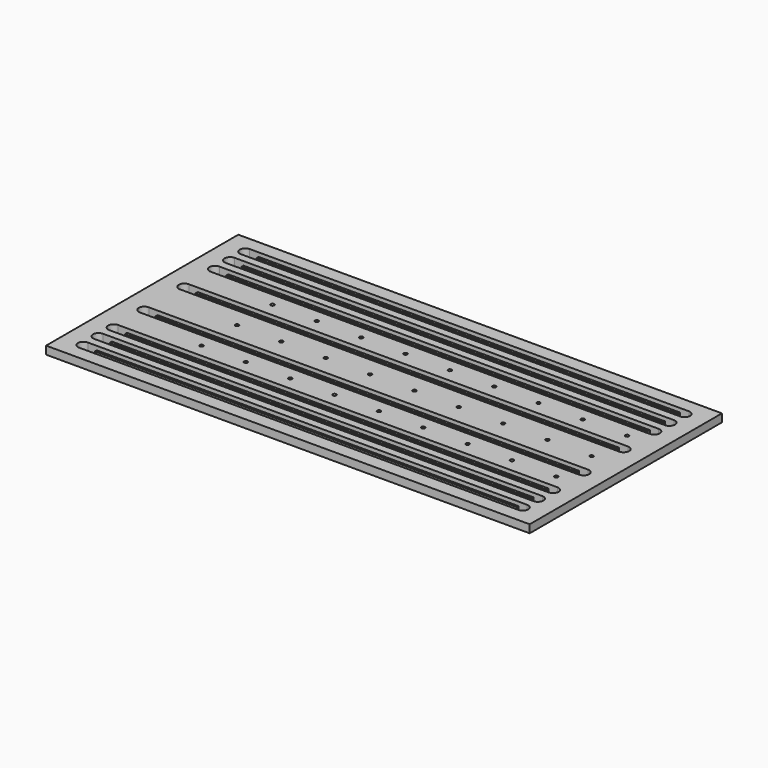
from build123d import *

# Parameters (mm, degrees)
F1_W     = 1091
F1_H     = 542
F1_R     = 4
F2_DEPTH = 18
F1_R_2   = 1.5
F1_W_2   = 951
F1_H_2   = 6
F1_H_3   = 5
F3_DEPTH = 9


with BuildPart() as f2:
    # F1 (on face) → F2 (new body)
    with BuildSketch(Plane.XY):
        with Locations((545.5, 271)):
            Rectangle(F1_W, F1_H)
        with Locations((214, 171)):
            Circle(F1_R, mode=Mode.SUBTRACT)
        with Locations((314, 171)):
            Circle(F1_R, mode=Mode.SUBTRACT)
        with Locations((414, 171)):
            Circle(F1_R, mode=Mode.SUBTRACT)
        with Locations((514, 171)):
            Circle(F1_R, mode=Mode.SUBTRACT)
        with BuildLine():
            Line((70, 30.25), (50, 30.25))
            ThreePointArc((50, 30.25), (37.5, 42.75), (50, 55.25))
            Line((50, 55.25), (70, 55.25))
            Line((70, 55.25), (1021, 55.25))
            Line((1021, 55.25), (1041, 55.25))
            ThreePointArc((1041, 55.25), (1053.5, 42.75), (1041, 30.25))
            Line((1041, 30.25), (1021, 30.25))
            Line((1021, 30.25), (70, 30.25))
        make_face(mode=Mode.SUBTRACT)
        with BuildLine():
            Line((70, 73), (50, 73))
            ThreePointArc((50, 73), (37.5, 85.5), (50, 98))
            Line((50, 98), (70, 98))
            Line((70, 98), (1021, 98))
            Line((1021, 98), (1041, 98))
            ThreePointArc((1041, 98), (1053.5, 85.5), (1041, 73))
            Line((1041, 73), (1021, 73))
            Line((1021, 73), (70, 73))
        make_face(mode=Mode.SUBTRACT)
        with BuildLine():
            Line((70, 115.75), (50, 115.75))
            ThreePointArc((50, 115.75), (37.5, 128.25), (50, 140.75))
            Line((50, 140.75), (70, 140.75))
            Line((70, 140.75), (1021, 140.75))
            Line((1021, 140.75), (1041, 140.75))
            ThreePointArc((1041, 140.75), (1053.5, 128.25), (1041, 115.75))
            Line((1041, 115.75), (1021, 115.75))
            Line((1021, 115.75), (70, 115.75))
        make_face(mode=Mode.SUBTRACT)
        with Locations((614, 171)):
            Circle(F1_R, mode=Mode.SUBTRACT)
        with Locations((714, 171)):
            Circle(F1_R, mode=Mode.SUBTRACT)
        with Locations((814, 171)):
            Circle(F1_R, mode=Mode.SUBTRACT)
        with BuildLine():
            Line((70, 202.061247), (50, 202.061247))
            ThreePointArc((50, 202.061247), (37.5, 214.561247), (50, 227.061247))
            Line((50, 227.061247), (70, 227.061247))
            Line((70, 227.061247), (1021, 227.061247))
            Line((1021, 227.061247), (1041, 227.061247))
            ThreePointArc((1041, 227.061247), (1053.5, 214.561247), (1041, 202.061247))
            Line((1041, 202.061247), (1021, 202.061247))
            Line((1021, 202.061247), (70, 202.061247))
        make_face(mode=Mode.SUBTRACT)
        with Locations((914, 171)):
            Circle(F1_R, mode=Mode.SUBTRACT)
        with Locations((1014, 171)):
            Circle(F1_R, mode=Mode.SUBTRACT)
        with Locations((214, 271)):
            Circle(F1_R, mode=Mode.SUBTRACT)
        with Locations((214, 371)):
            Circle(F1_R, mode=Mode.SUBTRACT)
        with Locations((314, 271)):
            Circle(F1_R, mode=Mode.SUBTRACT)
        with Locations((414, 271)):
            Circle(F1_R, mode=Mode.SUBTRACT)
        with Locations((514, 271)):
            Circle(F1_R, mode=Mode.SUBTRACT)
        with Locations((314, 371)):
            Circle(F1_R, mode=Mode.SUBTRACT)
        with Locations((414, 371)):
            Circle(F1_R, mode=Mode.SUBTRACT)
        with Locations((514, 371)):
            Circle(F1_R, mode=Mode.SUBTRACT)
        with Locations((614, 271)):
            Circle(F1_R, mode=Mode.SUBTRACT)
        with BuildLine():
            Line((70, 314.938753), (50, 314.938753))
            ThreePointArc((50, 314.938753), (37.5, 327.438753), (50, 339.938753))
            Line((50, 339.938753), (70, 339.938753))
            Line((70, 339.938753), (1021, 339.938753))
            Line((1021, 339.938753), (1041, 339.938753))
            ThreePointArc((1041, 339.938753), (1053.5, 327.438753), (1041, 314.938753))
            Line((1041, 314.938753), (1021, 314.938753))
            Line((1021, 314.938753), (70, 314.938753))
        make_face(mode=Mode.SUBTRACT)
        with Locations((714, 271)):
            Circle(F1_R, mode=Mode.SUBTRACT)
        with Locations((814, 271)):
            Circle(F1_R, mode=Mode.SUBTRACT)
        with Locations((614, 371)):
            Circle(F1_R, mode=Mode.SUBTRACT)
        with Locations((714, 371)):
            Circle(F1_R, mode=Mode.SUBTRACT)
        with Locations((814, 371)):
            Circle(F1_R, mode=Mode.SUBTRACT)
        with Locations((914, 271)):
            Circle(F1_R, mode=Mode.SUBTRACT)
        with Locations((1014, 271)):
            Circle(F1_R, mode=Mode.SUBTRACT)
        with Locations((914, 371)):
            Circle(F1_R, mode=Mode.SUBTRACT)
        with Locations((1014, 371)):
            Circle(F1_R, mode=Mode.SUBTRACT)
        with BuildLine():
            Line((70, 401.25), (50, 401.25))
            ThreePointArc((50, 401.25), (37.5, 413.75), (50, 426.25))
            Line((50, 426.25), (70, 426.25))
            Line((70, 426.25), (1021, 426.25))
            Line((1021, 426.25), (1041, 426.25))
            ThreePointArc((1041, 426.25), (1053.5, 413.75), (1041, 401.25))
            Line((1041, 401.25), (1021, 401.25))
            Line((1021, 401.25), (70, 401.25))
        make_face(mode=Mode.SUBTRACT)
        with BuildLine():
            Line((70, 444), (50, 444))
            ThreePointArc((50, 444), (37.5, 456.5), (50, 469))
            Line((50, 469), (70, 469))
            Line((70, 469), (1021, 469))
            Line((1021, 469), (1041, 469))
            ThreePointArc((1041, 469), (1053.5, 456.5), (1041, 444))
            Line((1041, 444), (1021, 444))
            Line((1021, 444), (70, 444))
        make_face(mode=Mode.SUBTRACT)
        with BuildLine():
            Line((70, 486.75), (50, 486.75))
            ThreePointArc((50, 486.75), (37.5, 499.25), (50, 511.75))
            Line((50, 511.75), (70, 511.75))
            Line((70, 511.75), (1021, 511.75))
            Line((1021, 511.75), (1041, 511.75))
            ThreePointArc((1041, 511.75), (1053.5, 499.25), (1041, 486.75))
            Line((1041, 486.75), (1021, 486.75))
            Line((1021, 486.75), (70, 486.75))
        make_face(mode=Mode.SUBTRACT)
    extrude(amount=F2_DEPTH)

    # F1 (on face) → F3 (join)
    with BuildSketch(Plane.XY):
        with Locations((414, 371)):
            Circle(F1_R)
        with Locations((414, 371)):
            Circle(F1_R_2, mode=Mode.SUBTRACT)
        with Locations((314, 371)):
            Circle(F1_R)
        with Locations((314, 371)):
            Circle(F1_R_2, mode=Mode.SUBTRACT)
        with Locations((214, 371)):
            Circle(F1_R)
        with Locations((214, 371)):
            Circle(F1_R_2, mode=Mode.SUBTRACT)
        with Locations((214, 271)):
            Circle(F1_R)
        with Locations((214, 271)):
            Circle(F1_R_2, mode=Mode.SUBTRACT)
        with Locations((314, 271)):
            Circle(F1_R)
        with Locations((314, 271)):
            Circle(F1_R_2, mode=Mode.SUBTRACT)
        with Locations((414, 271)):
            Circle(F1_R)
        with Locations((414, 271)):
            Circle(F1_R_2, mode=Mode.SUBTRACT)
        with Locations((514, 271)):
            Circle(F1_R)
        with Locations((514, 271)):
            Circle(F1_R_2, mode=Mode.SUBTRACT)
        with Locations((614, 271)):
            Circle(F1_R)
        with Locations((614, 271)):
            Circle(F1_R_2, mode=Mode.SUBTRACT)
        with Locations((714, 271)):
            Circle(F1_R)
        with Locations((714, 271)):
            Circle(F1_R_2, mode=Mode.SUBTRACT)
        with Locations((814, 271)):
            Circle(F1_R)
        with Locations((814, 271)):
            Circle(F1_R_2, mode=Mode.SUBTRACT)
        with Locations((914, 271)):
            Circle(F1_R)
        with Locations((914, 271)):
            Circle(F1_R_2, mode=Mode.SUBTRACT)
        with Locations((1014, 271)):
            Circle(F1_R)
        with Locations((1014, 271)):
            Circle(F1_R_2, mode=Mode.SUBTRACT)
        with Locations((1014, 171)):
            Circle(F1_R)
        with Locations((1014, 171)):
            Circle(F1_R_2, mode=Mode.SUBTRACT)
        with Locations((914, 171)):
            Circle(F1_R)
        with Locations((914, 171)):
            Circle(F1_R_2, mode=Mode.SUBTRACT)
        with Locations((814, 171)):
            Circle(F1_R)
        with Locations((814, 171)):
            Circle(F1_R_2, mode=Mode.SUBTRACT)
        with Locations((714, 171)):
            Circle(F1_R)
        with Locations((714, 171)):
            Circle(F1_R_2, mode=Mode.SUBTRACT)
        with Locations((614, 171)):
            Circle(F1_R)
        with Locations((614, 171)):
            Circle(F1_R_2, mode=Mode.SUBTRACT)
        with Locations((514, 171)):
            Circle(F1_R)
        with Locations((514, 171)):
            Circle(F1_R_2, mode=Mode.SUBTRACT)
        with Locations((414, 171)):
            Circle(F1_R)
        with Locations((414, 171)):
            Circle(F1_R_2, mode=Mode.SUBTRACT)
        with Locations((314, 171)):
            Circle(F1_R)
        with Locations((314, 171)):
            Circle(F1_R_2, mode=Mode.SUBTRACT)
        with Locations((214, 171)):
            Circle(F1_R)
        with Locations((214, 171)):
            Circle(F1_R_2, mode=Mode.SUBTRACT)
        with Locations((1014, 371)):
            Circle(F1_R)
        with Locations((1014, 371)):
            Circle(F1_R_2, mode=Mode.SUBTRACT)
        with Locations((914, 371)):
            Circle(F1_R)
        with Locations((914, 371)):
            Circle(F1_R_2, mode=Mode.SUBTRACT)
        with Locations((814, 371)):
            Circle(F1_R)
        with Locations((814, 371)):
            Circle(F1_R_2, mode=Mode.SUBTRACT)
        with Locations((714, 371)):
            Circle(F1_R)
        with Locations((714, 371)):
            Circle(F1_R_2, mode=Mode.SUBTRACT)
        with Locations((614, 371)):
            Circle(F1_R)
        with Locations((614, 371)):
            Circle(F1_R_2, mode=Mode.SUBTRACT)
        with Locations((514, 371)):
            Circle(F1_R)
        with Locations((514, 371)):
            Circle(F1_R_2, mode=Mode.SUBTRACT)
        with Locations((545.5, 508.75)):
            Rectangle(F1_W_2, F1_H_2)
        with Locations((545.5, 489.75)):
            Rectangle(F1_W_2, F1_H_2)
        with Locations((545.5, 466)):
            Rectangle(F1_W_2, F1_H_2)
        with Locations((545.5, 447)):
            Rectangle(F1_W_2, F1_H_2)
        with Locations((545.5, 423.25)):
            Rectangle(F1_W_2, F1_H_2)
        with Locations((545.5, 404.25)):
            Rectangle(F1_W_2, F1_H_2)
        with Locations((545.5, 336.938753)):
            Rectangle(F1_W_2, F1_H_2)
        with Locations((545.5, 317.938753)):
            Rectangle(F1_W_2, F1_H_2)
        with Locations((545.5, 224.061247)):
            Rectangle(F1_W_2, F1_H_2)
        with Locations((545.5, 205.061247)):
            Rectangle(F1_W_2, F1_H_2)
        with Locations((545.5, 137.75)):
            Rectangle(F1_W_2, F1_H_2)
        with Locations((545.5, 118.75)):
            Rectangle(F1_W_2, F1_H_2)
        with Locations((545.5, 95)):
            Rectangle(F1_W_2, F1_H_2)
        with Locations((545.5, 76)):
            Rectangle(F1_W_2, F1_H_2)
        with Locations((545.5, 52.75)):
            Rectangle(F1_W_2, F1_H_3)
        with Locations((545.5, 32.75)):
            Rectangle(F1_W_2, F1_H_3)
    extrude(amount=F3_DEPTH)


solid = f2.part
